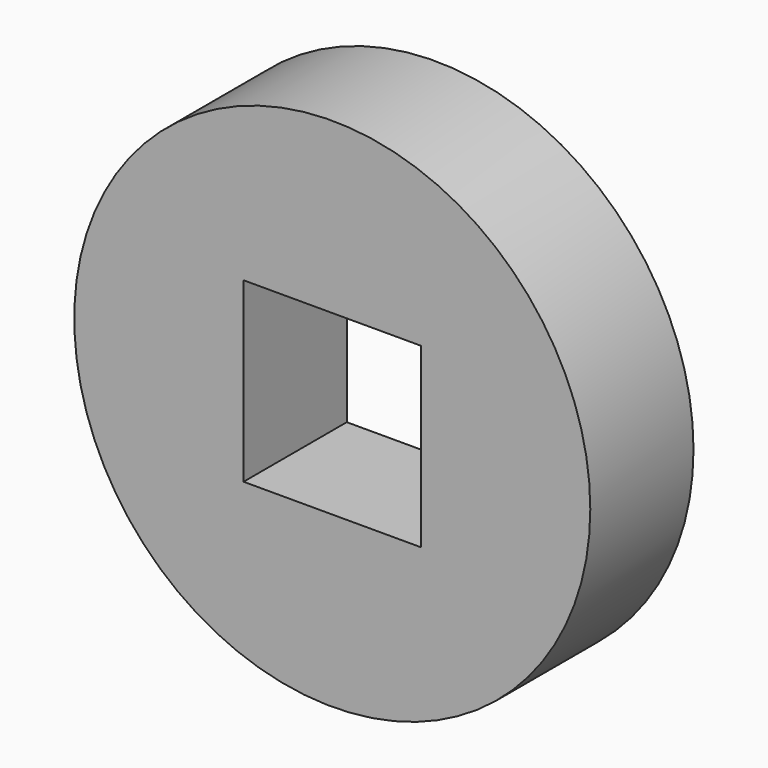
from build123d import *

# Parameters (mm, degrees)
F0_R     = 50.8
F0_W     = 34.925
F0_H     = 34.925
F1_DEPTH = 25.4


with BuildPart() as f1:
    # F0 (on Front) → F1 (new body)
    with BuildSketch(Plane.XZ):
        Circle(F0_R)
        Rectangle(F0_W, F0_H, mode=Mode.SUBTRACT)
    extrude(amount=F1_DEPTH)


solid = f1.part
